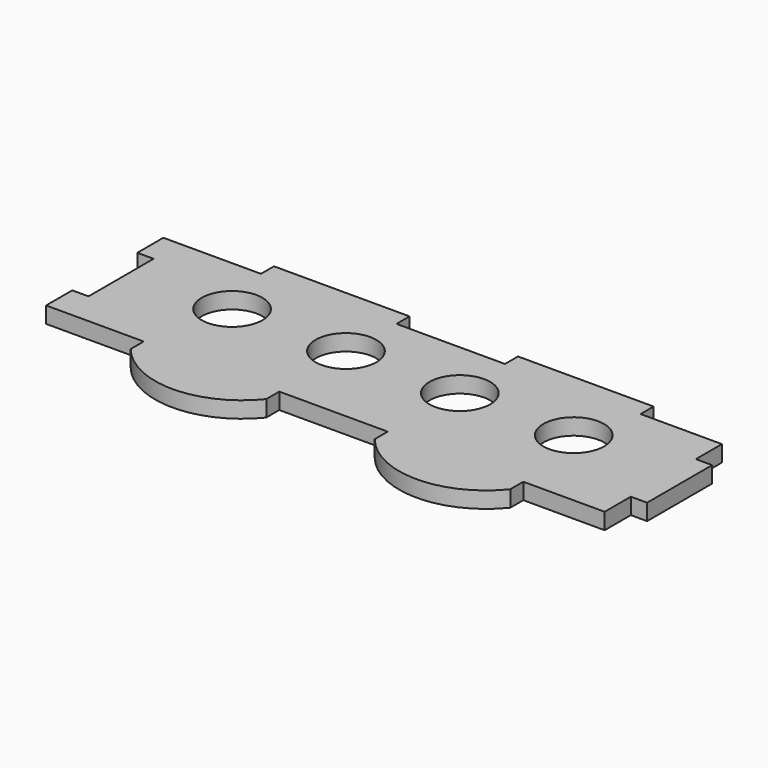
from build123d import *

# Parameters (mm, degrees)
SKETCH_R      = 5.6
EXTRUDE_DEPTH = 3


with BuildPart() as part:
    # Sketch → Extrude (new body)
    with BuildSketch(Plane.XY):
        with BuildLine():
            Line((40, -6.37), (40, -9.37))
            ThreePointArc((15, -9.37), (27.5, -15.37), (40, -9.37))
            Line((15, -9.37), (15, -6.37))
            Line((15, -6.37), (0, -6.37))
            Line((-3, -6.37), (0, -6.37))
            Line((-3, -0.34), (-3, -6.37))
            Line((-3, -0.34), (0, -0.34))
            Line((0, 14.66), (0, -0.34))
            Line((0, 14.66), (-3, 14.66))
            Line((-3, 14.66), (-3, 20.66))
            Line((-3, 20.66), (0, 20.66))
            Line((0, 20.66), (15, 20.66))
            Line((15, 23.66), (15, 20.66))
            Line((40, 23.66), (15, 23.66))
            Line((40, 20.66), (40, 23.66))
            Line((40, 20.66), (60, 20.66))
            Line((60, 23.66), (60, 20.66))
            Line((85, 23.66), (60, 23.66))
            Line((85, 20.66), (85, 23.66))
            Line((85, 20.66), (100, 20.66))
            Line((100, 20.66), (100, 14.66))
            Line((100, 14.66), (103, 14.66))
            Line((103, 14.66), (103, -0.34))
            Line((103, -0.34), (100, -0.34))
            Line((100, -0.34), (100, -6.37))
            Line((100, -6.37), (85, -6.37))
            Line((85, -6.37), (85, -9.37))
            ThreePointArc((60, -9.37), (72.5, -15.37), (85, -9.37))
            Line((60, -9.37), (60, -6.37))
            Line((60, -6.37), (40, -6.37))
        make_face()
        with Locations((18.6, 9.5)):
            Circle(SKETCH_R, mode=Mode.SUBTRACT)
        with Locations((39.6, 9.5)):
            Circle(SKETCH_R, mode=Mode.SUBTRACT)
        with Locations((60.6, 9.5)):
            Circle(SKETCH_R, mode=Mode.SUBTRACT)
        with Locations((81.6, 9.5)):
            Circle(SKETCH_R, mode=Mode.SUBTRACT)
    extrude(amount=EXTRUDE_DEPTH)


solid = part.part
